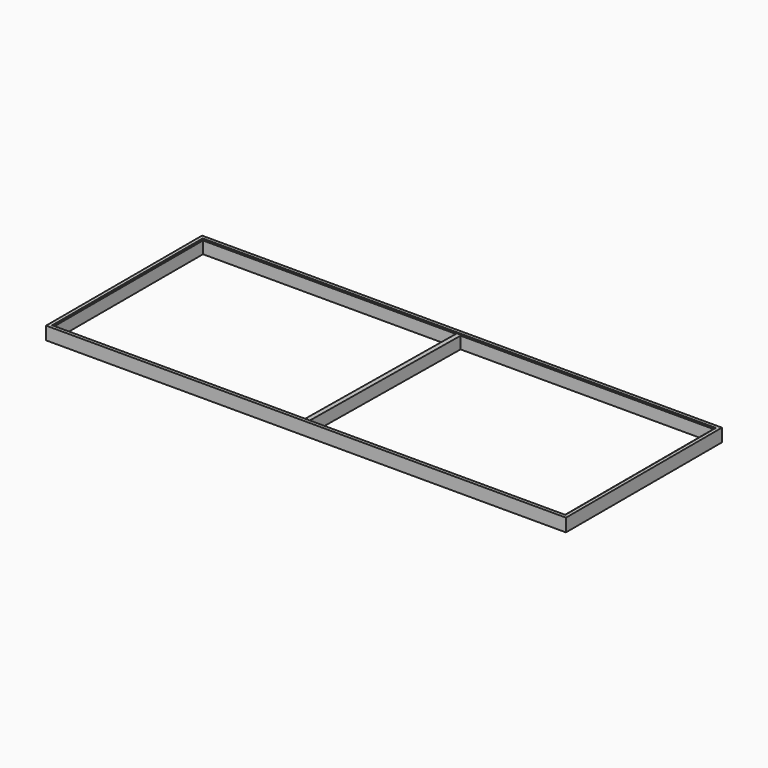
from build123d import *

# Parameters (mm, degrees)
F0_W     = 2000
F0_H     = 750
F1_DEPTH = 50
F2_T     = -18
F3_DEPTH = 25
F5_DEPTH = 46.5
F6_W     = 1964
F6_H     = 714
F7_DEPTH = 3.5


with BuildPart() as f1:
    # F0 (on Top) → F1 (new body)
    with BuildSketch(Plane.XY):
        Rectangle(F0_W, F0_H)
    extrude(amount=F1_DEPTH)

    # F2
    f2_openings = [f1.faces().sort_by_distance(p)[0] for p in [
        (0, 0, 50),
    ]]
    offset(amount=F2_T, openings=f2_openings)

    # F3 (cut): a face of the model
    f3_faces = [f1.faces().sort_by_distance(p)[0] for p in [
        (0, 0, 18),
    ]]
    extrude(f3_faces, amount=-F3_DEPTH, mode=Mode.SUBTRACT)

    # F4 (on face) → F5 (join)
    with BuildSketch(Plane.XY):
        Polygon((9, 357), (0, 357), (-9, 357), (-18, -357), (0, -357), align=None)
    extrude(amount=F5_DEPTH)

    # F6 (on face) → F7 (cut)
    with BuildSketch(Plane.XY.offset(50)):
        Polygon((982, 362), (-982, 362), (-987, 362), (-987, 357), (-987, -357), (-987, -362), (-982, -362), (982, -362), (987, -362), (987, -357), (987, 357), (987, 362), align=None)
        Rectangle(F6_W, F6_H, mode=Mode.SUBTRACT)
    extrude(amount=-F7_DEPTH, mode=Mode.SUBTRACT)


solid = f1.part
